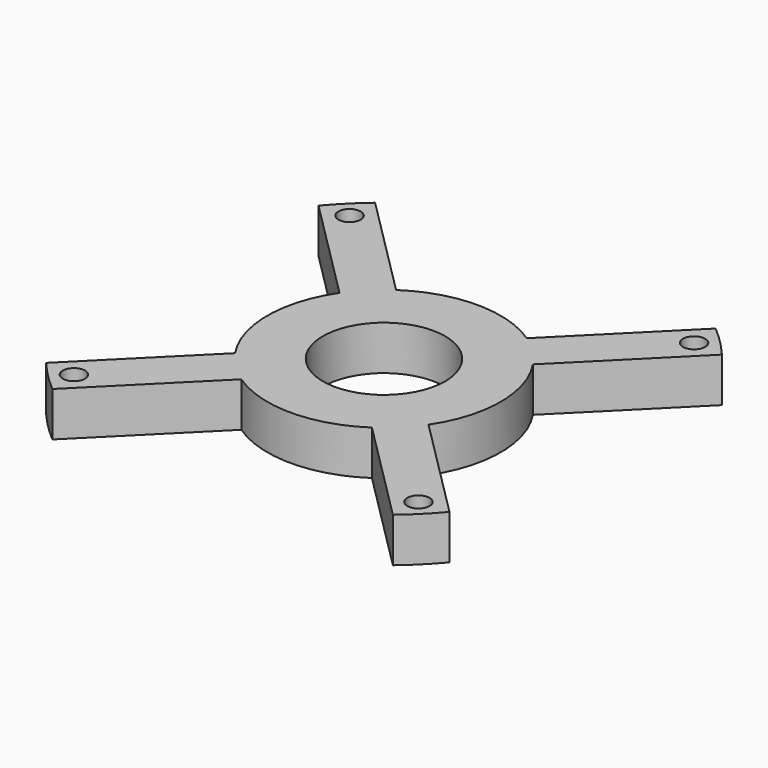
from build123d import *

# Parameters (mm, degrees)
PAD002_DEPTH         = 4
SKETCH012_R          = 11
POCKET008_DEPTH      = 4.001
POCKET008_DEPTH_BACK = 4.001
SKETCH023_R          = 2
POCKET015_DEPTH      = 209.948575
POCKET015_DEPTH_BACK = 209.948575
POLARPATTERN_COUNT   = 4


with BuildPart() as part:
    # Sketch011 → Pad002 (new body, symmetric)
    with BuildSketch(Plane.XY):
        with BuildLine():
            ThreePointArc((17.405807, -11.748953), (21, 0), (17.405807, 11.748953))
            Line((36.296696, 30.639841), (17.405807, 11.748953))
            ThreePointArc((36.296696, 30.639841), (33.587572, 33.587572), (30.639841, 36.296696))
            Line((11.748953, 17.405807), (30.639841, 36.296696))
            ThreePointArc((11.748953, 17.405807), (0, 21), (-11.748953, 17.405807))
            Line((-30.639841, 36.296696), (-11.748953, 17.405807))
            ThreePointArc((-30.639841, 36.296696), (-33.587572, 33.587572), (-36.296696, 30.639841))
            Line((-36.296696, 30.639841), (-17.405807, 11.748953))
            ThreePointArc((-17.405807, 11.748953), (-21, 0), (-17.405807, -11.748953))
            Line((-36.296696, -30.639841), (-17.405807, -11.748953))
            ThreePointArc((-36.296696, -30.639841), (-33.587572, -33.587572), (-30.639841, -36.296696))
            Line((-11.748953, -17.405807), (-30.639841, -36.296696))
            ThreePointArc((-11.748953, -17.405807), (0, -21), (11.748953, -17.405807))
            Line((11.748953, -17.405807), (30.639841, -36.296696))
            ThreePointArc((30.639841, -36.296696), (33.587572, -33.587572), (36.296696, -30.639841))
            Line((17.405807, -11.748953), (36.296696, -30.639841))
        make_face()
    extrude(amount=PAD002_DEPTH, both=True)

    # Sketch012 → Pocket008 (cut, two sides)
    with BuildSketch(Plane.XY) as pocket008_sk:
        Circle(SKETCH012_R)
    extrude(amount=-POCKET008_DEPTH, mode=Mode.SUBTRACT)
    extrude(pocket008_sk.sketch, amount=POCKET008_DEPTH_BACK, mode=Mode.SUBTRACT)

    # Sketch023 → Pocket015 (cut, two sides)
    with BuildSketch(Plane.XY) as pocket015_sk:
        with Locations((-31, 31)):
            Circle(SKETCH023_R)
    pocket015 = extrude(amount=-POCKET015_DEPTH, mode=Mode.SUBTRACT) + extrude(pocket015_sk.sketch, amount=POCKET015_DEPTH_BACK, mode=Mode.SUBTRACT)

    # PolarPattern: Pocket015 ×4 about axis
    polarpattern_axis = Axis((0, 0, 0), (0, 0, 1))
    for i in range(1, POLARPATTERN_COUNT):
        add(pocket015.rotate(polarpattern_axis, i * 360 / POLARPATTERN_COUNT), mode=Mode.SUBTRACT)


with BuildPart() as part_1:
    # Body005 placement: moved
    add(part.part.moved(Location((0, 0, 58))))


with BuildPart() as part_2:
    # Clone003 placement: moved
    add(part_1.part.moved(Location((0, 0, 20))))


with BuildPart() as part_3:
    # Body006 placement: moved
    add(part_2.part.moved(Location((0, 0, -136))))


solid = part_3.part
